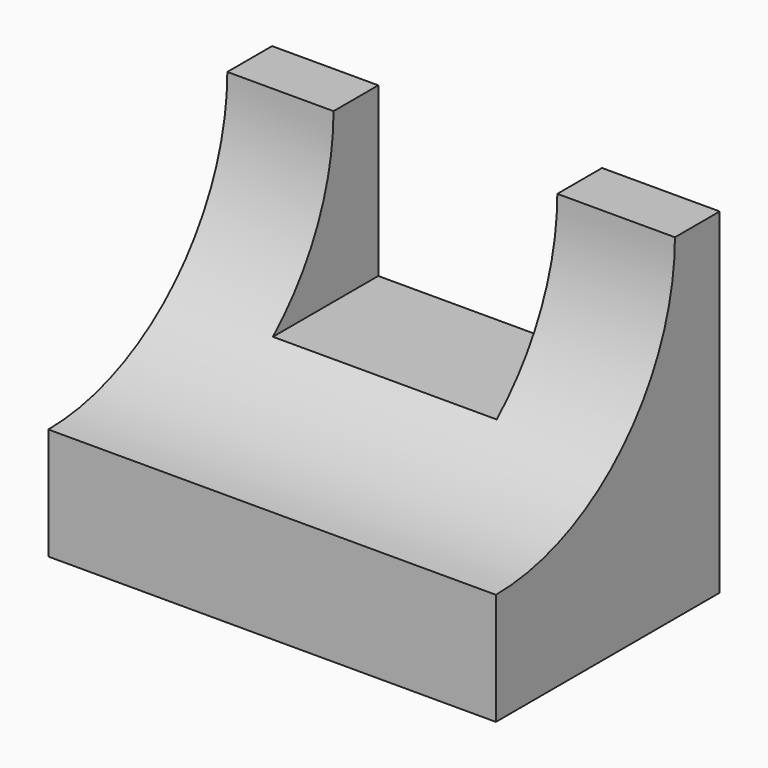
from build123d import *

# Parameters (mm, degrees)
F0_W     = 50.8
F0_H     = 38.1
F1_DEPTH = 31.75
F3_DEPTH = 50.8
F4_W     = 25.4
F4_H     = 19.05
F5_DEPTH = 15.621


with BuildPart() as f1:
    # F0 (on Front) → F1 (new body)
    with BuildSketch(Plane.XZ):
        with Locations((25.4, 19.05)):
            Rectangle(F0_W, F0_H)
    extrude(amount=F1_DEPTH)

    # F2 (on face) → F3 (cut)
    with BuildSketch(Plane.YZ.offset(50.8)):
        with BuildLine():
            Line((-31.75, 38.1), (-31.75, 12.7))
            ThreePointArc((-31.75, 12.7), (-13.789488, 20.139488), (-6.35, 38.1))
            Line((-6.35, 38.1), (-31.75, 38.1))
        make_face()
    extrude(amount=-F3_DEPTH, mode=Mode.SUBTRACT)

    # F4 (on face) → F5 (cut)
    with BuildSketch(Plane(origin=(0, 0, 0), x_dir=(-1, 0, 0), z_dir=(0, 1, 0))):
        with Locations((-24.751491, 28.575)):
            Rectangle(F4_W, F4_H)
    extrude(amount=-F5_DEPTH, mode=Mode.SUBTRACT)


solid = f1.part
